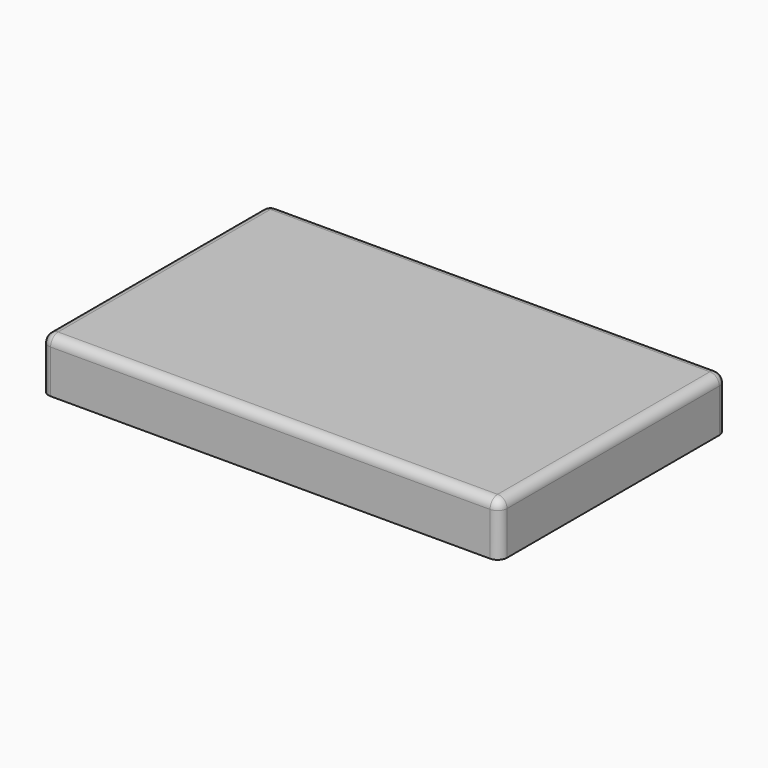
from build123d import *

# Parameters (mm, degrees)
F0_W          = 246.58002
F0_H          = 152.895108
F1_DEPTH      = 3
F1_DEPTH_BACK = 25.4
F2_R          = 5.08
F3_R          = 5.08


with BuildPart() as f1:
    # F0 (on Top) → F1 (new body, two sides)
    with BuildSketch(Plane.XY) as f1_sk:
        Rectangle(F0_W, F0_H)
    extrude(amount=F1_DEPTH)
    extrude(f1_sk.sketch, amount=-F1_DEPTH_BACK)

    # F2
    f2_edges = [f1.edges().sort_by_distance(p)[0] for p in [
        (123.29001, 0, 3),
    ]]
    fillet(f2_edges, radius=F2_R)

    # F3
    f3_edges = [f1.edges().sort_by_distance(p)[0] for p in [
        (-2.54, -76.447554, 3),
        (-2.54, 76.447554, 3),
        (-123.29001, 0, 3),
        (123.29001, -76.447554, -13.74),
        (123.29001, 76.447554, -13.74),
        (-123.29001, -76.447554, -11.2),
        (-123.29001, 76.447554, -11.2),
    ]]
    fillet(f3_edges, radius=F3_R)


solid = f1.part
